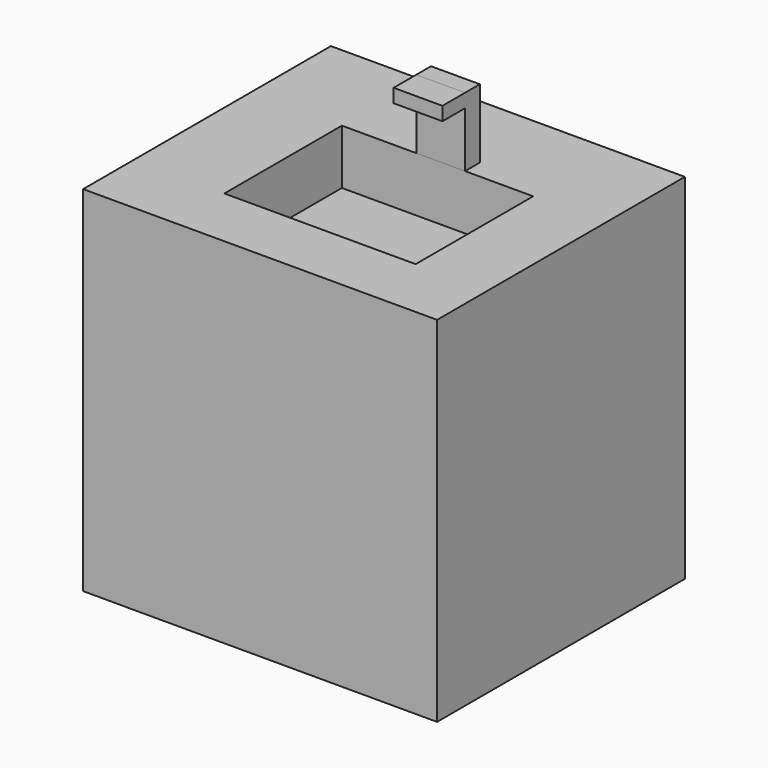
from build123d import *

# Parameters (mm, degrees)
F0_W     = 609.6
F0_H     = 533.4
F1_DEPTH = 609.6
F2_W     = 329.442531
F2_H     = 253.009767
F3_DEPTH = 94.488
F4_W     = 84.049378
F4_H     = 31.71426
F5_DEPTH = 118.872
F6_W     = 84.049378
F6_H     = 23.422247
F7_DEPTH = 48.768


with BuildPart() as f1:
    # F0 (on Top) → F1 (new body)
    with BuildSketch(Plane.XY):
        with Locations((-4.874074, 4.181122)):
            Rectangle(F0_W, F0_H)
    extrude(amount=F1_DEPTH)

    # F2 (on face) → F3 (cut)
    with BuildSketch(Plane.XY.offset(609.6)):
        with Locations((11.30782, -27.327523)):
            Rectangle(F2_W, F2_H)
    extrude(amount=-F3_DEPTH, mode=Mode.SUBTRACT)

    # F4 (on face) → F5 (join)
    with BuildSketch(Plane.XY.offset(609.6)):
        with Locations((16.729621, 115.034491)):
            Rectangle(F4_W, F4_H)
    extrude(amount=F5_DEPTH)

    # F6 (on face) → F7 (join)
    with BuildSketch(Plane.XZ.offset(-99.177361)):
        with Locations((16.729621, 716.760876)):
            Rectangle(F6_W, F6_H)
    extrude(amount=F7_DEPTH)


solid = f1.part
